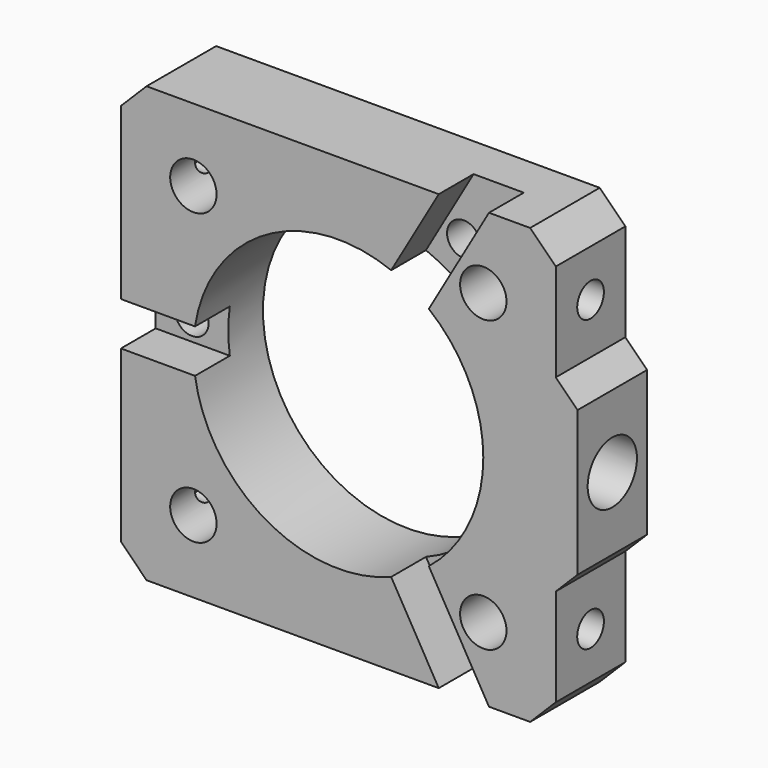
from build123d import *

# Parameters (mm, degrees)
SKETCH001_R         = 20
SKETCH001_R_2       = 3.2
PAD_DEPTH           = 12
SKETCH003_W         = 30
SKETCH003_H         = 6
POCKET_DEPTH        = 6
HOLE_D              = 3.4
HOLE_DEPTH          = 25
HOLE_CBORE_D        = 4.6
HOLE_CBORE_DEPTH    = 5
HOLE001_D           = 3.4
HOLE001_DEPTH       = 10
HOLE001_CBORE_D     = 4.6
HOLE001_CBORE_DEPTH = 5
HOLE001_TIPS_R      = 1.7
HOLE002_D           = 3.4
HOLE002_DEPTH       = 10
HOLE002_CBORE_D     = 4.6
HOLE002_CBORE_DEPTH = 5
HOLE003_D           = 6.6
HOLE003_DEPTH       = 12
HOLE003_CBORE_D     = 8.5
HOLE003_CBORE_DEPTH = 6.4
FILLET002_R         = 1


with BuildPart() as part:
    # Sketch001 → Pad (new body)
    with BuildSketch(Plane.XZ):
        Polygon((30, -26.464466), (26.464466, -30), (-26.464466, -30), (-30, -26.464466), (-30, 26.464466), (-26.464466, 30), (26.464466, 30), (30, 26.464466), (30, 13), (33, 10), (33, -10), (30, -13), align=None)
        Circle(SKETCH001_R, mode=Mode.SUBTRACT)
        with Locations((-20, 20)):
            Circle(SKETCH001_R_2, mode=Mode.SUBTRACT)
        with Locations((20, 20)):
            Circle(SKETCH001_R_2, mode=Mode.SUBTRACT)
        with Locations((20, -20)):
            Circle(SKETCH001_R_2, mode=Mode.SUBTRACT)
        with Locations((-20, -20)):
            Circle(SKETCH001_R_2, mode=Mode.SUBTRACT)
    extrude(amount=PAD_DEPTH)

    # Sketch003 (on DatumPlane) → Pocket (cut)
    with BuildSketch(Plane.XZ.offset(12)):
        Polygon((24.946545, 37.208684), (9.946545, 11.227922), (4.750393, 14.227922), (19.750393, 40.208684), align=None)
        Polygon((9.946545, -11.227922), (24.946545, -37.208684), (19.750393, -40.208684), (4.750393, -14.227922), align=None)
        with Locations((-29.696938, 0)):
            Rectangle(SKETCH003_W, SKETCH003_H)
    extrude(amount=-POCKET_DEPTH, mode=Mode.SUBTRACT)

    # Hole
    with Locations(Plane.XZ.offset(6)):
        with Locations((-25, 0), (12.5, 21.650635), (12.5, -21.650635)):
            CounterBoreHole(HOLE_D / 2, HOLE_CBORE_D / 2, HOLE_CBORE_DEPTH, depth=HOLE_DEPTH)

    # Hole001
    with Locations(Plane.YZ.offset(30)):
        with Locations((-6, 20), (-6, -20)):
            CounterBoreHole(HOLE001_D / 2, HOLE001_CBORE_D / 2, HOLE001_CBORE_DEPTH, depth=HOLE001_DEPTH)

    # Hole001 tips → Hole001 tip 1 section 0
    with BuildSketch(Plane.YZ.offset(20), mode=Mode.PRIVATE) as hole001_tip_1_s0:
        with Locations((-6, 20)):
            Circle(HOLE001_TIPS_R)
    loft([hole001_tip_1_s0.sketch, Vertex(18.978537, -6, 20)], mode=Mode.SUBTRACT)

    # Hole001 tips → Hole001 tip 2 section 0
    with BuildSketch(Plane.YZ.offset(20), mode=Mode.PRIVATE) as hole001_tip_2_s0:
        with Locations((-6, -20)):
            Circle(HOLE001_TIPS_R)
    loft([hole001_tip_2_s0.sketch, Vertex(18.978537, -6, -20)], mode=Mode.SUBTRACT)

    # Hole002
    with Locations(Plane(origin=(-30, 0, 0), x_dir=(0, 1, 0), z_dir=(-1, 0, 0))):
        with Locations((-6, -20), (-6, 20)):
            CounterBoreHole(HOLE002_D / 2, HOLE002_CBORE_D / 2, HOLE002_CBORE_DEPTH, depth=HOLE002_DEPTH)

    # Hole003
    with Locations(Plane.YZ.offset(33)):
        with Locations((-6, 0)):
            CounterBoreHole(HOLE003_D / 2, HOLE003_CBORE_D / 2, HOLE003_CBORE_DEPTH, depth=HOLE003_DEPTH)

    # Fillet002
    fillet002_edges = [part.edges().sort_by_distance(p)[0] for p in [
        (-23.2, 0, -20),
        (16.8, 0, -20),
        (16.8, 0, 20),
        (-23.2, 0, 20),
    ]]
    fillet(fillet002_edges, radius=FILLET002_R)


with BuildPart() as part_1:
    # Body001 placement: moved
    add(part.part.moved(Location((0, 140, 0))))


solid = part_1.part
